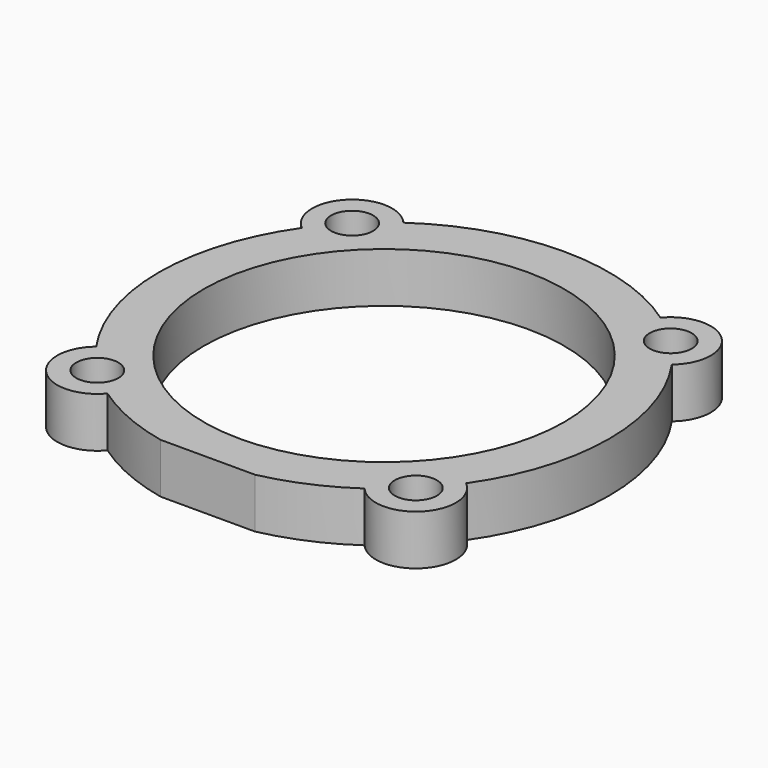
from build123d import *

# Parameters (mm, degrees)
F1_DEPTH = 5
F2_R     = 2.1
F3_DEPTH = 5.001
F4_R     = 18
F5_DEPTH = 5.001


with BuildPart() as f1:
    # F0 (on Top) → F1 (new body)
    with BuildSketch(Plane.XY):
        with BuildLine():
            ThreePointArc((18.475718, 12.841256), (18.73833, 18.73833), (12.841256, 18.475718))
            ThreePointArc((12.841256, 18.475718), (0, 22.5), (-12.841256, 18.475718))
            ThreePointArc((-12.841256, 18.475718), (-18.73833, 18.73833), (-18.475718, 12.841256))
            ThreePointArc((-18.475718, 12.841256), (-22.5, 0), (-18.475718, -12.841256))
            ThreePointArc((-18.475718, -12.841256), (-18.73833, -18.73833), (-12.841256, -18.475718))
            ThreePointArc((-12.841256, -18.475718), (-8.954225, -20.641508), (-4.716991, -22))
            Line((-4.716991, -22), (4.716991, -22))
            ThreePointArc((4.716991, -22), (8.954225, -20.641508), (12.841256, -18.475718))
            ThreePointArc((12.841256, -18.475718), (18.73833, -18.73833), (18.475718, -12.841256))
            ThreePointArc((18.475718, -12.841256), (22.5, 0), (18.475718, 12.841256))
        make_face()
    extrude(amount=F1_DEPTH)

    # F2 (on face) → F3 (cut, through all)
    with BuildSketch(Plane.XY.offset(5)):
        with Locations((-15.909903, 15.909903)):
            Circle(F2_R)
        with Locations((15.909903, 15.909903)):
            Circle(F2_R)
        with Locations((15.909903, -15.909903)):
            Circle(F2_R)
        with Locations((-15.909903, -15.909903)):
            Circle(F2_R)
    extrude(amount=-F3_DEPTH, mode=Mode.SUBTRACT)

    # F4 (on face) → F5 (cut, through all)
    with BuildSketch(Plane.XY.offset(5)):
        Circle(F4_R)
    extrude(amount=-F5_DEPTH, mode=Mode.SUBTRACT)


solid = f1.part
